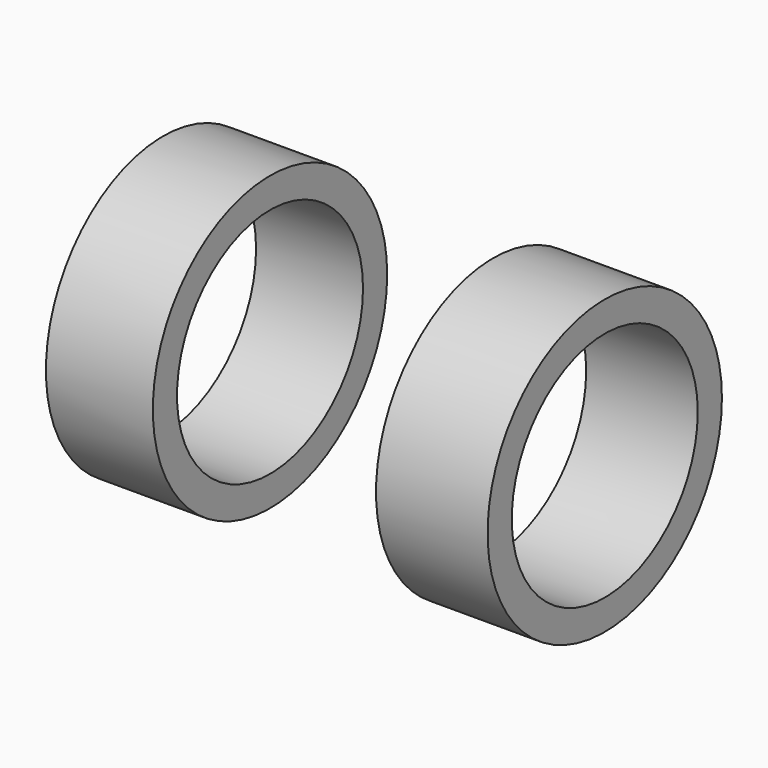
from build123d import *

# Parameters (mm, degrees)
F0_R          = 63
F1_DEPTH      = 190
F2_R          = 50
F3_DEPTH      = 190
F4_W          = 96
F4_H          = 126
F5_DEPTH      = 70
F5_DEPTH_BACK = 70


with BuildPart() as f1:
    # F0 (on Right) → F1 (new body)
    with BuildSketch(Plane.YZ):
        Circle(F0_R)
    extrude(amount=F1_DEPTH)

    # F2 (on face) → F3 (cut)
    with BuildSketch(Plane.YZ.offset(190)):
        Circle(F2_R)
    extrude(amount=-F3_DEPTH, mode=Mode.SUBTRACT)

    # F4 (on Front) → F5 (cut, two sides)
    with BuildSketch(Plane.XZ) as f5_sk:
        with Locations((94, 0)):
            Rectangle(F4_W, F4_H)
    extrude(amount=-F5_DEPTH, mode=Mode.SUBTRACT)
    extrude(f5_sk.sketch, amount=F5_DEPTH_BACK, mode=Mode.SUBTRACT)


solid = f1.part
